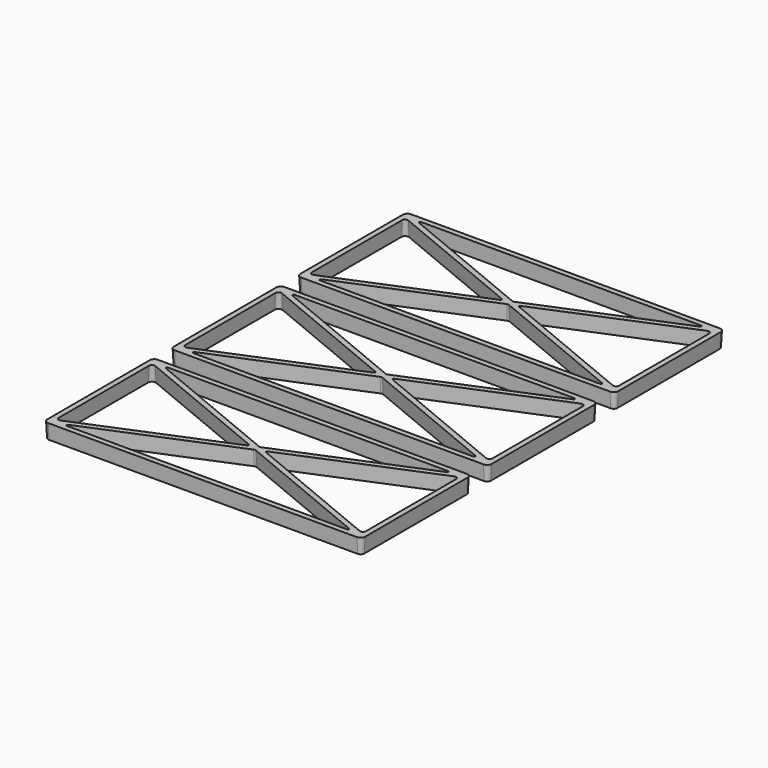
from build123d import *

# Parameters (mm, degrees)
F1_DEPTH = 12.7
F1_TAPER = -3


with BuildPart() as f1:
    # F0 (on Top) → F1 (new body)
    with BuildSketch(Plane.XY):
        with BuildLine():
            Line((-263.525, 0), (-3.175, 0))
            ThreePointArc((-3.175, 0), (-0.9299359697, 0.9299359697), (0, 3.175))
            Line((0, 3.175), (0, 111.125))
            ThreePointArc((0, 111.125), (-0.9299359697, 113.3700640303), (-3.175, 114.3))
            Line((-3.175, 114.3), (-263.525, 114.3))
            ThreePointArc((-263.525, 114.3), (-265.7700640303, 113.3700640303), (-266.7, 111.125))
            Line((-266.7, 111.125), (-266.7, 3.175))
            ThreePointArc((-266.7, 3.175), (-265.7700640303, 0.9299359697), (-263.525, 0))
        make_face()
        with BuildLine():
            ThreePointArc((-259.1339273029, 6.7142419169), (-262.113461679, 7.0068905797), (-263.525, 9.6471231275))
            Line((-263.525, 9.6471231275), (-263.525, 104.6528768725))
            ThreePointArc((-263.525, 104.6528768725), (-262.113461679, 107.2931094203), (-259.1339273029, 107.5857580831))
            Line((-259.1339273029, 107.5857580831), (-141.0314557388, 58.6164406053))
            ThreePointArc((-141.0314557388, 58.6164406053), (-140.0519920873, 57.15), (-141.0314557388, 55.6835593947))
            Line((-141.0314557388, 55.6835593947), (-259.1339273029, 6.7142419169))
        make_face(mode=Mode.SUBTRACT)
        with BuildLine():
            ThreePointArc((-14.6851322094, 6.2289406053), (-13.7362275329, 4.4525146866), (-15.2931685579, 3.175))
            Line((-15.2931685579, 3.175), (-251.4068314421, 3.175))
            ThreePointArc((-251.4068314421, 3.175), (-252.9637724671, 4.4525146866), (-252.0148677906, 6.2289406053))
            Line((-252.0148677906, 6.2289406053), (-134.5660726971, 54.9272214977))
            ThreePointArc((-134.5660726971, 54.9272214977), (-133.35, 55.1693402872), (-132.1339273029, 54.9272214977))
            Line((-132.1339273029, 54.9272214977), (-14.6851322094, 6.2289406053))
        make_face(mode=Mode.SUBTRACT)
        with BuildLine():
            Line((-251.4068314421, 111.125), (-15.2931685579, 111.125))
            ThreePointArc((-15.2931685579, 111.125), (-13.7362275329, 109.8474853134), (-14.6851322094, 108.0710593947))
            Line((-14.6851322094, 108.0710593947), (-132.1339273029, 59.3727785023))
            ThreePointArc((-132.1339273029, 59.3727785023), (-133.35, 59.1306597128), (-134.5660726971, 59.3727785023))
            Line((-134.5660726971, 59.3727785023), (-252.0148677906, 108.0710593947))
            ThreePointArc((-252.0148677906, 108.0710593947), (-252.9637724671, 109.8474853134), (-251.4068314421, 111.125))
        make_face(mode=Mode.SUBTRACT)
        with BuildLine():
            Line((-3.175, 104.6528768725), (-3.175, 9.6471231275))
            ThreePointArc((-3.175, 9.6471231275), (-4.586538321, 7.0068905797), (-7.5660726971, 6.7142419169))
            Line((-7.5660726971, 6.7142419169), (-125.6685442612, 55.6835593947))
            ThreePointArc((-125.6685442612, 55.6835593947), (-126.6480079127, 57.15), (-125.6685442612, 58.6164406053))
            Line((-125.6685442612, 58.6164406053), (-7.5660726971, 107.5857580831))
            ThreePointArc((-7.5660726971, 107.5857580831), (-4.586538321, 107.2931094203), (-3.175, 104.6528768725))
        make_face(mode=Mode.SUBTRACT)
    extrude(amount=F1_DEPTH, taper=F1_TAPER)


with BuildPart() as f1b:
    # F0 (on Top) → F1, piece 2 (new body)
    with BuildSketch(Plane.XY):
        with BuildLine():
            Line((-263.779, -133.096), (-3.429, -133.096))
            ThreePointArc((-3.429, -133.096), (-1.1839359697, -132.1660640303), (-0.254, -129.921))
            Line((-0.254, -129.921), (-0.254, -21.971))
            ThreePointArc((-0.254, -21.971), (-1.1839359697, -19.7259359697), (-3.429, -18.796))
            Line((-3.429, -18.796), (-263.779, -18.796))
            ThreePointArc((-263.779, -18.796), (-266.0240640303, -19.7259359697), (-266.954, -21.971))
            Line((-266.954, -21.971), (-266.954, -129.921))
            ThreePointArc((-266.954, -129.921), (-266.0240640303, -132.1660640303), (-263.779, -133.096))
        make_face()
        with BuildLine():
            ThreePointArc((-134.8200726971, -78.1687785023), (-133.604, -77.9266597128), (-132.3879273029, -78.1687785023))
            Line((-132.3879273029, -78.1687785023), (-14.9391322094, -126.8670593947))
            ThreePointArc((-14.9391322094, -126.8670593947), (-13.9902275329, -128.6434853134), (-15.5471685579, -129.921))
            Line((-15.5471685579, -129.921), (-251.6608314421, -129.921))
            ThreePointArc((-251.6608314421, -129.921), (-253.2177724671, -128.6434853134), (-252.2688677906, -126.8670593947))
            Line((-252.2688677906, -126.8670593947), (-134.8200726971, -78.1687785023))
        make_face(mode=Mode.SUBTRACT)
        with BuildLine():
            ThreePointArc((-263.779, -28.4431231275), (-262.367461679, -25.8028905797), (-259.3879273029, -25.5102419169))
            Line((-259.3879273029, -25.5102419169), (-141.2854557388, -74.4795593947))
            ThreePointArc((-141.2854557388, -74.4795593947), (-140.3059920873, -75.946), (-141.2854557388, -77.4124406053))
            Line((-141.2854557388, -77.4124406053), (-259.3879273029, -126.3817580831))
            ThreePointArc((-259.3879273029, -126.3817580831), (-262.367461679, -126.0891094203), (-263.779, -123.4488768725))
            Line((-263.779, -123.4488768725), (-263.779, -28.4431231275))
        make_face(mode=Mode.SUBTRACT)
        with BuildLine():
            Line((-134.8200726971, -73.7232214977), (-252.2688677906, -25.0249406053))
            ThreePointArc((-252.2688677906, -25.0249406053), (-253.2177724671, -23.2485146866), (-251.6608314421, -21.971))
            Line((-251.6608314421, -21.971), (-15.5471685579, -21.971))
            ThreePointArc((-15.5471685579, -21.971), (-13.9902275329, -23.2485146866), (-14.9391322094, -25.0249406053))
            Line((-14.9391322094, -25.0249406053), (-132.3879273029, -73.7232214977))
            ThreePointArc((-132.3879273029, -73.7232214977), (-133.604, -73.9653402872), (-134.8200726971, -73.7232214977))
        make_face(mode=Mode.SUBTRACT)
        with BuildLine():
            Line((-7.8200726971, -126.3817580831), (-125.9225442612, -77.4124406053))
            ThreePointArc((-125.9225442612, -77.4124406053), (-126.9020079127, -75.946), (-125.9225442612, -74.4795593947))
            Line((-125.9225442612, -74.4795593947), (-7.8200726971, -25.5102419169))
            ThreePointArc((-7.8200726971, -25.5102419169), (-4.840538321, -25.8028905797), (-3.429, -28.4431231275))
            Line((-3.429, -28.4431231275), (-3.429, -123.4488768725))
            ThreePointArc((-3.429, -123.4488768725), (-4.840538321, -126.0891094203), (-7.8200726971, -126.3817580831))
        make_face(mode=Mode.SUBTRACT)
    extrude(amount=F1_DEPTH, taper=F1_TAPER)


with BuildPart() as f1c:
    # F0 (on Top) → F1, piece 3 (new body)
    with BuildSketch(Plane.XY):
        with BuildLine():
            Line((-264.033, -266.192), (-3.683, -266.192))
            ThreePointArc((-3.683, -266.192), (-1.4379359697, -265.2620640303), (-0.508, -263.017))
            Line((-0.508, -263.017), (-0.508, -155.067))
            ThreePointArc((-0.508, -155.067), (-1.4379359697, -152.8219359697), (-3.683, -151.892))
            Line((-3.683, -151.892), (-264.033, -151.892))
            ThreePointArc((-264.033, -151.892), (-266.2780640303, -152.8219359697), (-267.208, -155.067))
            Line((-267.208, -155.067), (-267.208, -263.017))
            ThreePointArc((-267.208, -263.017), (-266.2780640303, -265.2620640303), (-264.033, -266.192))
        make_face()
        with BuildLine():
            ThreePointArc((-264.033, -161.5391231275), (-262.621461679, -158.8988905797), (-259.6419273029, -158.6062419169))
            Line((-259.6419273029, -158.6062419169), (-141.5394557388, -207.5755593947))
            ThreePointArc((-141.5394557388, -207.5755593947), (-140.5599920873, -209.042), (-141.5394557388, -210.5084406053))
            Line((-141.5394557388, -210.5084406053), (-259.6419273029, -259.4777580831))
            ThreePointArc((-259.6419273029, -259.4777580831), (-262.621461679, -259.1851094203), (-264.033, -256.5448768725))
            Line((-264.033, -256.5448768725), (-264.033, -161.5391231275))
        make_face(mode=Mode.SUBTRACT)
        with BuildLine():
            ThreePointArc((-135.0740726971, -211.2647785023), (-133.858, -211.0226597128), (-132.6419273029, -211.2647785023))
            Line((-132.6419273029, -211.2647785023), (-15.1931322094, -259.9630593947))
            ThreePointArc((-15.1931322094, -259.9630593947), (-14.2442275329, -261.7394853134), (-15.8011685579, -263.017))
            Line((-15.8011685579, -263.017), (-251.9148314421, -263.017))
            ThreePointArc((-251.9148314421, -263.017), (-253.4717724671, -261.7394853134), (-252.5228677906, -259.9630593947))
            Line((-252.5228677906, -259.9630593947), (-135.0740726971, -211.2647785023))
        make_face(mode=Mode.SUBTRACT)
        with BuildLine():
            Line((-135.0740726971, -206.8192214977), (-252.5228677906, -158.1209406053))
            ThreePointArc((-252.5228677906, -158.1209406053), (-253.4717724671, -156.3445146866), (-251.9148314421, -155.067))
            Line((-251.9148314421, -155.067), (-15.8011685579, -155.067))
            ThreePointArc((-15.8011685579, -155.067), (-14.2442275329, -156.3445146866), (-15.1931322094, -158.1209406053))
            Line((-15.1931322094, -158.1209406053), (-132.6419273029, -206.8192214977))
            ThreePointArc((-132.6419273029, -206.8192214977), (-133.858, -207.0613402872), (-135.0740726971, -206.8192214977))
        make_face(mode=Mode.SUBTRACT)
        with BuildLine():
            Line((-8.0740726971, -259.4777580831), (-126.1765442612, -210.5084406053))
            ThreePointArc((-126.1765442612, -210.5084406053), (-127.1560079127, -209.042), (-126.1765442612, -207.5755593947))
            Line((-126.1765442612, -207.5755593947), (-8.0740726971, -158.6062419169))
            ThreePointArc((-8.0740726971, -158.6062419169), (-5.094538321, -158.8988905797), (-3.683, -161.5391231275))
            Line((-3.683, -161.5391231275), (-3.683, -256.5448768725))
            ThreePointArc((-3.683, -256.5448768725), (-5.094538321, -259.1851094203), (-8.0740726971, -259.4777580831))
        make_face(mode=Mode.SUBTRACT)
    extrude(amount=F1_DEPTH, taper=F1_TAPER)


solid = Compound([f1.part, f1b.part, f1c.part])
